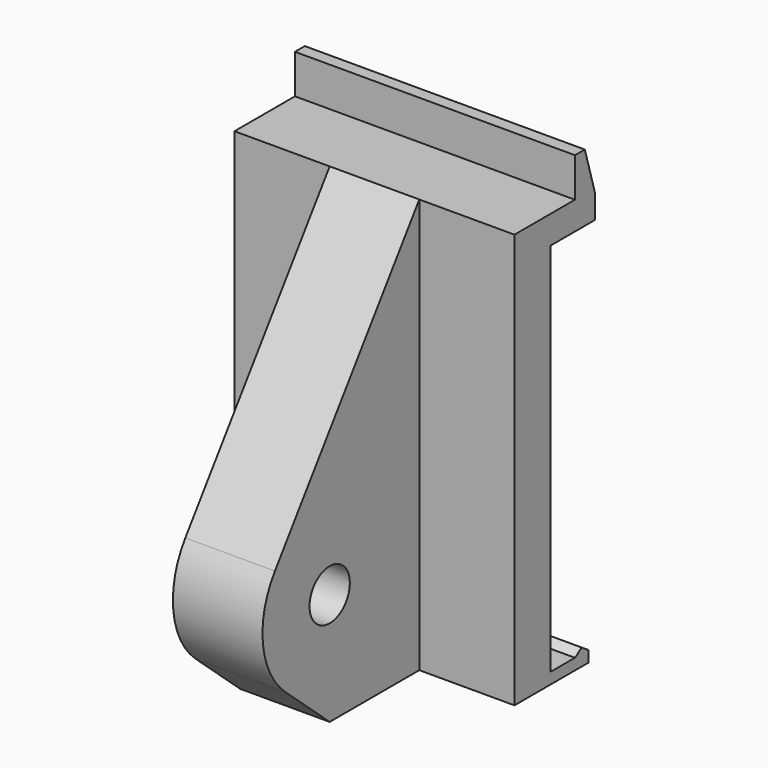
from build123d import *

# Parameters (mm, degrees)
F0_R     = 4.5
F1_DEPTH = 25
F3_DEPTH = 50
F5_DEPTH = 50
F6_R     = 4.5
F7_DEPTH = 17
F8_R     = 4.5
F9_DEPTH = 17


with BuildPart() as f1:
    # F0 (on Right) → F1 (new body, symmetric)
    with BuildSketch(Plane.YZ):
        with BuildLine():
            Line((0, 7), (0, 0))
            Line((0, 0), (-13.5, 0))
            Line((-13.5, 0), (-45.723576, -45.306083))
            ThreePointArc((-45.723576, -45.306083), (-48.401067, -55.719942), (-43.421567, -65.25))
            Line((-43.421567, -65.25), (-33.5, -74))
            Line((-33.5, -74), (-13.5, -74))
            Line((-13.5, -74), (3, -74))
            Line((3, -74), (3, -71))
            Line((3, -71), (0, -71))
            Line((0, -71), (0, -72))
            Line((0, -72), (-5.5, -72))
            Line((-5.5, -72), (-5.5, -5))
            Line((-5.5, -5), (4.5, -5))
            Line((4.5, -5), (4.5, 7))
            Line((4.5, 7), (0, 7))
        make_face()
        with Locations((-33.5, -54)):
            Circle(F0_R, mode=Mode.SUBTRACT)
    extrude(amount=F1_DEPTH, both=True)

    # F2 (on face) → F3 (cut, through all)
    with BuildSketch(Plane.YZ.offset(25)):
        Polygon((4.5, 7), (2.2, 7), (4.5, -0.822673), align=None)
    extrude(amount=-F3_DEPTH, mode=Mode.SUBTRACT)

    # F4 (on face) → F5 (cut, through all)
    with BuildSketch(Plane.YZ.offset(25)):
        Polygon((0, -71), (0, -72), (1.5, -71), align=None)
        Polygon((3, -71), (1.5, -71), (3, -72), align=None)
    extrude(amount=-F5_DEPTH, mode=Mode.SUBTRACT)

    # F6 (on face) → F7 (cut)
    with BuildSketch(Plane.YZ.offset(25)):
        with BuildLine():
            Line((-13.5, -74), (-13.5, 0))
            Line((-13.5, 0), (-45.723576, -45.306083))
            ThreePointArc((-45.723576, -45.306083), (-48.401067, -55.719942), (-43.421567, -65.25))
            Line((-43.421567, -65.25), (-33.5, -74))
            Line((-33.5, -74), (-13.5, -74))
        make_face()
        with Locations((-33.5, -54)):
            Circle(F6_R, mode=Mode.SUBTRACT)
    extrude(amount=-F7_DEPTH, mode=Mode.SUBTRACT)

    # F8 (on face) → F9 (cut)
    with BuildSketch(Plane(origin=(-25, 0, 0), x_dir=(0, -1, 0), z_dir=(-1, 0, 0))):
        with BuildLine():
            Line((45.723576, -45.306083), (13.5, 0))
            Line((13.5, 0), (13.5, -74))
            Line((13.5, -74), (33.5, -74))
            Line((33.5, -74), (43.421567, -65.25))
            ThreePointArc((43.421567, -65.25), (48.401067, -55.719942), (45.723576, -45.306083))
        make_face()
        with Locations((33.5, -54)):
            Circle(F8_R, mode=Mode.SUBTRACT)
    extrude(amount=-F9_DEPTH, mode=Mode.SUBTRACT)


solid = f1.part
